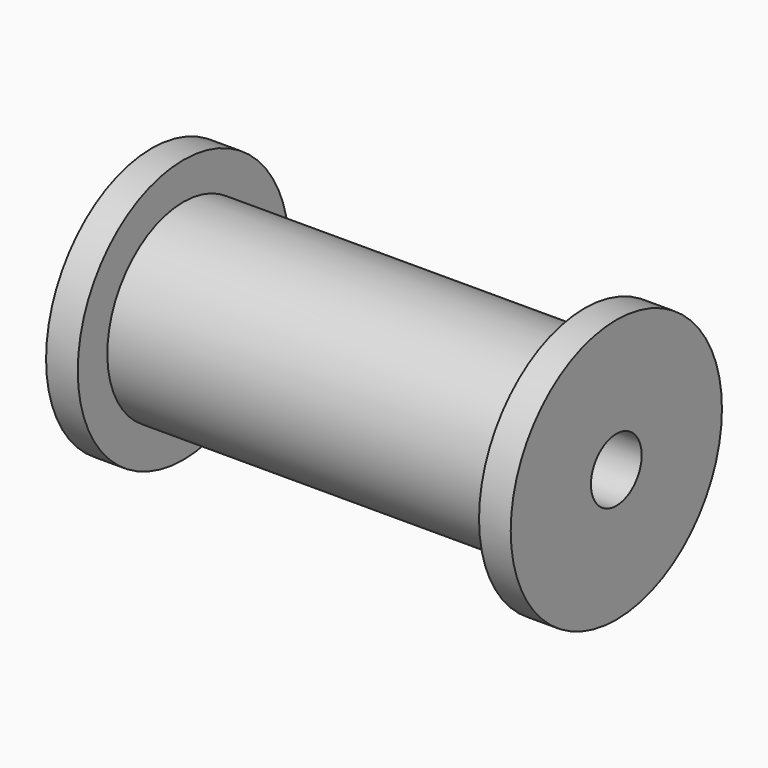
from build123d import *

# Parameters (mm, degrees)
F0_W = 38
F0_H = 18
F3_D = 12


with BuildPart() as f1:
    # F0 (on Front) → F1 (revolve)
    with BuildSketch(Plane.XZ):
        Polygon((-44, 0), (-38, 0), (-38, 18), (-38, 25), (-44, 25), align=None)
        with Locations((-19, 9)):
            Rectangle(F0_W, F0_H)
        with Locations((19, 9)):
            Rectangle(F0_W, F0_H)
        Polygon((38, 18), (38, 0), (44, 0), (44, 25), (38, 25), align=None)
    revolve(axis=Axis((-19, 0, 0), (-1, 0, 0)))

    # F3 (through all)
    with Locations(Plane.YZ.offset(44)):
        with Locations((0, 0)):
            Hole(F3_D / 2)


solid = f1.part
